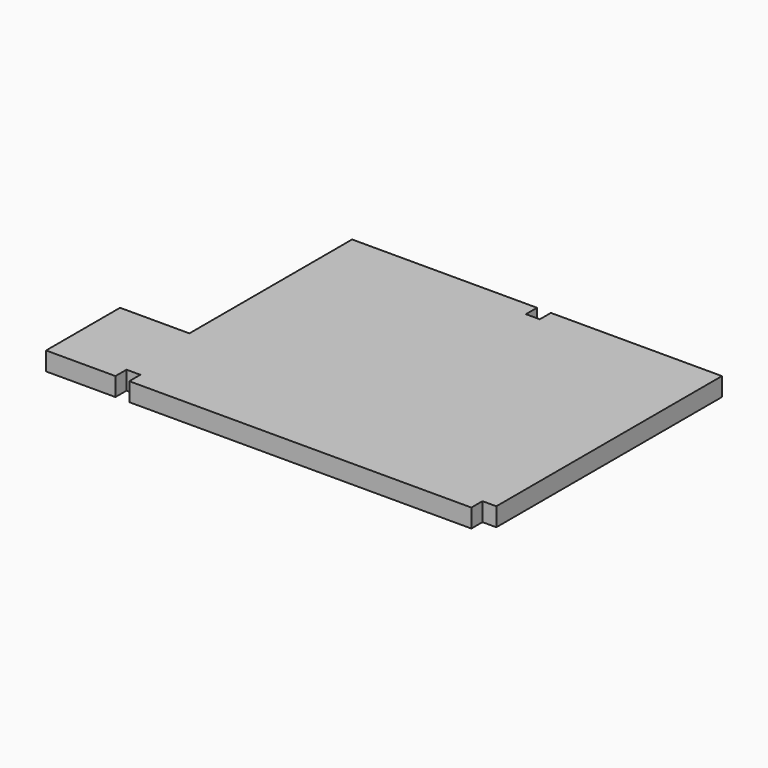
from build123d import *

# Parameters (mm, degrees)
F1_DEPTH = 4


with BuildPart() as f1:
    # F0 (on Top) → F1 (new body)
    with BuildSketch(Plane.XY):
        Polygon((-55, -32), (-40, -32), (-40, -29), (-40, -12), (-55, -12), align=None)
        Polygon((-37, -29), (-37, -32), (37, -32), (37, -29), (40, -29), (40, 32), (3, 32), (3, 29), (0, 29), (0, 32), (-40, 32), (-40, -12), (-40, -29), align=None)
    extrude(amount=F1_DEPTH)


solid = f1.part
